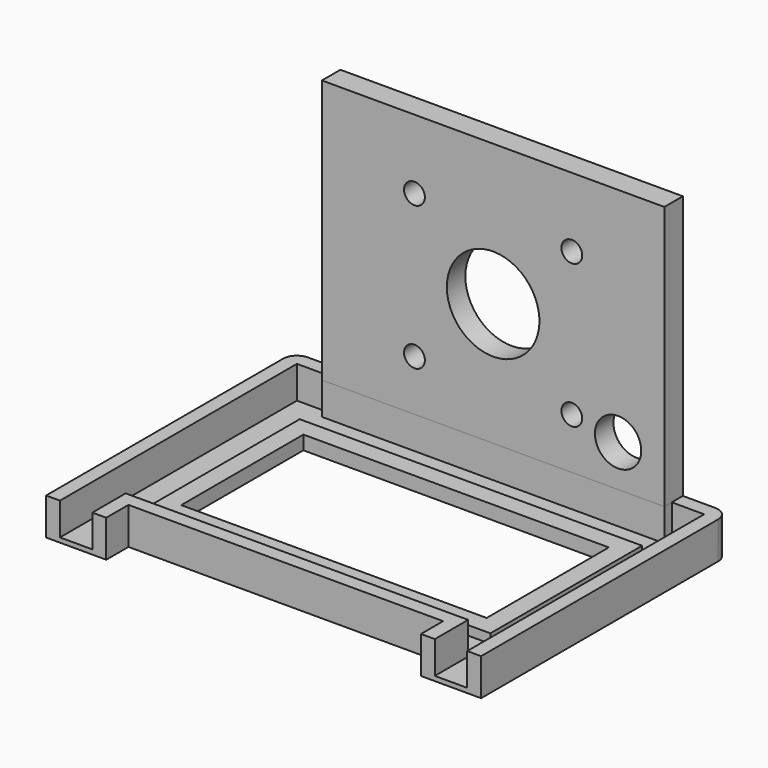
from build123d import *

# Parameters (mm, degrees)
F0_W     = 66
F0_H     = 33
F0_R     = 1.5
F1_DEPTH = 3
F3_DEPTH = 5
F4_W     = 74
F4_H     = 41
F5_DEPTH = 2
F6_W     = 74
F6_H     = 5
F7_DEPTH = 57
F8_R     = 10
F8_R_2   = 5
F8_R_3   = 2.25
F9_DEPTH = 67.001
F10_R    = 3


with BuildPart() as f1:
    # F0 (on Top) → F1 (new body)
    with BuildSketch(Plane.XY):
        Polygon((47, -32), (47, 35), (-20, 35), (-20, 55), (-35, 55), (-35, 35), (-47, 35), (-47, -32), (-34, -32), (-34, -26), (34, -26), (34, -32), align=None)
        with Locations((0, 3.5)):
            Rectangle(F0_W, F0_H, mode=Mode.SUBTRACT)
        with Locations((-27.5, 40)):
            Circle(F0_R, mode=Mode.SUBTRACT)
        with Locations((-27.5, 50)):
            Circle(F0_R, mode=Mode.SUBTRACT)
    extrude(amount=F1_DEPTH)

    # F2 (on face) → F3 (join)
    with BuildSketch(Plane.XY.offset(3)):
        Polygon((-37, -23), (-37, -32), (-34, -32), (-34, -26), (34, -26), (34, -32), (37, -32), (37, -23), align=None)
        Polygon((-37, 32), (-37, 30), (37, 30), (37, 32), (44, 32), (44, -32), (47, -32), (47, 35), (-20, 35), (-35, 35), (-47, 35), (-47, -32), (-44, -32), (-44, 32), align=None)
    extrude(amount=F3_DEPTH)

    # F4 (on face) → F5 (cut)
    with BuildSketch(Plane.XY.offset(3)):
        Polygon((-37, -23), (37, -23), (37, -32), (44, -32), (44, 32), (37, 32), (37, 30), (-37, 30), (-37, 32), (-44, 32), (-44, -32), (-37, -32), align=None)
        with Locations((0, 3.5)):
            Rectangle(F4_W, F4_H, mode=Mode.SUBTRACT)
    extrude(amount=-F5_DEPTH, mode=Mode.SUBTRACT)

    # F10
    f10_edges = [f1.edges().sort_by_distance(p)[0] for p in [
        (-35, 35, 1.5),
        (-20, 35, 1.5),
        (-35, 55, 1.5),
        (-20, 55, 1.5),
        (-47, 35, 4),
        (47, 35, 4),
    ]]
    fillet(f10_edges, radius=F10_R)


with BuildPart() as f7:
    # F6 (on face) → F7 (new body)
    with BuildSketch(Plane.XY.offset(8)):
        with Locations((0, 32.5)):
            Rectangle(F6_W, F6_H)
    extrude(amount=F7_DEPTH)

    # F8 (on face) → F9 (cut, through all)
    with BuildSketch(Plane(origin=(0, 35, 0), x_dir=(-1, 0, 0), z_dir=(0, 1, 0))):
        with Locations((0, 34.5)):
            Circle(F8_R)
        with Locations((-27, 17)):
            Circle(F8_R_2)
        with Locations((-17, 50)):
            Circle(F8_R_3)
        with Locations((-17, 19)):
            Circle(F8_R_3)
        with Locations((17, 19)):
            Circle(F8_R_3)
        with Locations((17, 50)):
            Circle(F8_R_3)
    extrude(amount=-F9_DEPTH, mode=Mode.SUBTRACT)


solid = Compound([f1.part, f7.part])
